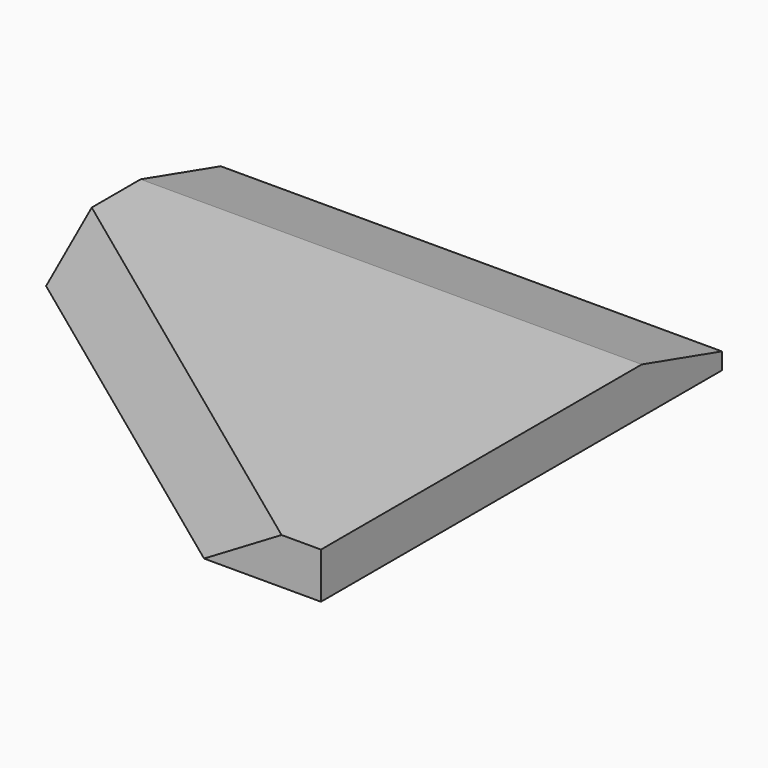
from build123d import *

# Parameters (mm, degrees)
F0_W     = 60
F0_H     = 60
F1_DEPTH = 5.5
F3_DEPTH = 60
F4_W     = 6.375
F4_H     = 13
F5_DEPTH = 1
F6_W     = 6.375
F6_H     = 45
F6_H_2   = 7
F6_H_3   = 12.4285714286
F6_H_4   = 17.8571428571
F6_H_5   = 23.2857142857
F6_H_6   = 28.7142857143
F6_H_7   = 34.1428571429
F6_H_8   = 39.5714285714
F7_DEPTH = 4.5
F9_DEPTH = 5.5
F9_TAPER = -45


with BuildPart() as f1:
    # F0 (on Top) → F1 (new body)
    with BuildSketch(Plane.XY):
        Rectangle(F0_W, F0_H)
    extrude(amount=F1_DEPTH)

    # F2 (on face) → F3 (cut, through all)
    with BuildSketch(Plane.YZ.offset(30)):
        Polygon((18, 5.5), (30, 2), (30, 5.5), align=None)
    extrude(amount=-F3_DEPTH, mode=Mode.SUBTRACT)

    # F4 (on face) → F5 (cut)
    with BuildSketch(Plane(origin=(0, 0, 0), x_dir=(1, 0, 0), z_dir=(0, 0, -1))):
        with Locations((-25.8125, -23.5)):
            Rectangle(F4_W, F4_H)
        with Locations((-11.0625, -23.5)):
            Rectangle(F4_W, F4_H)
        with Locations((18.4375, -23.5)):
            Rectangle(F4_W, F4_H)
        with Locations((11.0625, -23.5)):
            Rectangle(F4_W, F4_H)
        with Locations((3.6875, -23.5)):
            Rectangle(F4_W, F4_H)
        with Locations((-18.4375, -23.5)):
            Rectangle(F4_W, F4_H)
        with Locations((-3.6875, -23.5)):
            Rectangle(F4_W, F4_H)
        with Locations((25.8125, -23.5)):
            Rectangle(F4_W, F4_H)
    extrude(amount=-F5_DEPTH, mode=Mode.SUBTRACT)

    # F6 (on face) → F7 (cut)
    with BuildSketch(Plane(origin=(0, 0, 0), x_dir=(1, 0, 0), z_dir=(0, 0, -1))):
        with Locations((25.8125, 5.5)):
            Rectangle(F6_W, F6_H)
        with Locations((-25.8125, -13.5)):
            Rectangle(F6_W, F6_H_2)
        with Locations((-18.4375, -10.7857142857)):
            Rectangle(F6_W, F6_H_3)
        with Locations((-11.0625, -8.0714285714)):
            Rectangle(F6_W, F6_H_4)
        with Locations((-3.6875, -5.3571428571)):
            Rectangle(F6_W, F6_H_5)
        with Locations((3.6875, -2.6428571429)):
            Rectangle(F6_W, F6_H_6)
        with Locations((11.0625, 0.0714285714)):
            Rectangle(F6_W, F6_H_7)
        with Locations((18.4375, 2.7857142857)):
            Rectangle(F6_W, F6_H_8)
    extrude(amount=-F7_DEPTH, mode=Mode.SUBTRACT)

    # F8 (on face) → F9 (cut, through all)
    with BuildSketch(Plane(origin=(0, 0, 0), x_dir=(1, 0, 0), z_dir=(0, 0, -1))):
        Polygon((-30, 30), (-30, -3.8595641646), (16, 30), align=None)
    extrude(amount=-F9_DEPTH, taper=F9_TAPER, mode=Mode.SUBTRACT)


solid = f1.part
